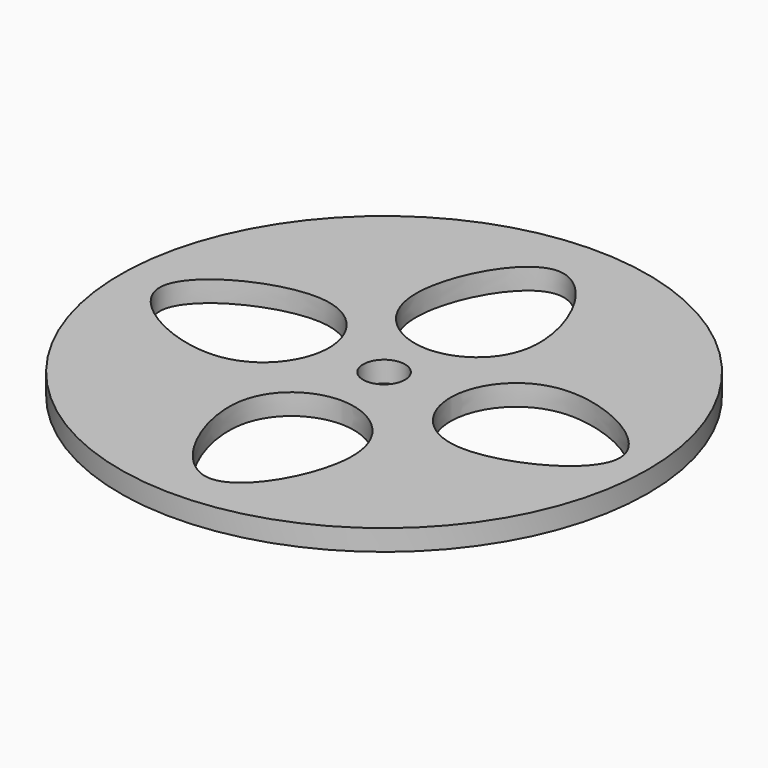
from build123d import *

# Parameters (mm, degrees)
F0_R     = 37.8050267404
F1_DEPTH = 3
F3_D     = 6
F5_DEPTH = 3


with BuildPart() as f1:
    # F0 (on Top) → F1 (new body)
    with BuildSketch(Plane.XY):
        Circle(F0_R)
    extrude(amount=F1_DEPTH)

    # F3 (through all)
    with Locations(Plane.XY.offset(3)):
        with Locations((0, 0)):
            Hole(F3_D / 2)

    # F4 (on face) → F5 (cut)
    with BuildSketch(Plane.XY.offset(3)):
        with BuildLine():
            add(Edge.make_bspline(
                [(0, 7.3677147739), (-4.3172130985, 7.5143755854), (-13.6661611311, 14.6820454611), (0.12214911, 40.695215941), (13.7482012339, 13.5762134247), (4.2042141951, 7.2248926681), (0, 7.3677147739)],
                knots=[0, 0, 0, 0, 0.2284800069, 0.499821664, 0.7775002377, 1, 1, 1, 1], degree=3))
        make_face()
        with BuildLine():
            add(Edge.make_bspline(
                [(-8.4818354808, 0.4180464894), (-8.6284962923, -3.8991666092), (-15.796166168, -13.2481146417), (-41.8093366479, 0.5401955994), (-14.6903341316, 14.1662477233), (-8.339013375, 4.6222606845), (-8.4818354808, 0.4180464894)],
                knots=[0, 0, 0, 0, 0.2284800069, 0.499821664, 0.7775002377, 1, 1, 1, 1], degree=3))
        make_face()
        with BuildLine():
            add(Edge.make_bspline(
                [(0.8413353935, -8.3578969352), (5.158548492, -8.5045577467), (14.5074965246, -15.6722276224), (0.7191862834, -41.6853981023), (-12.9068658404, -14.566395586), (-3.3628788016, -8.2150748295), (0.8413353935, -8.3578969352)],
                knots=[0, 0, 0, 0, 0.2284800069, 0.499821664, 0.7775002377, 1, 1, 1, 1], degree=3))
        make_face()
        with BuildLine():
            add(Edge.make_bspline(
                [(9.6563412808, 0.14133472), (9.8030020923, 4.4585478185), (16.970671968, 13.807495851), (42.9838424479, 0.0191856099), (15.8648399316, -13.606866514), (9.513519175, -4.0628794752), (9.6563412808, 0.14133472)],
                knots=[0, 0, 0, 0, 0.2284800069, 0.499821664, 0.7775002377, 1, 1, 1, 1], degree=3))
        make_face()
    extrude(amount=-F5_DEPTH, mode=Mode.SUBTRACT)


solid = f1.part
